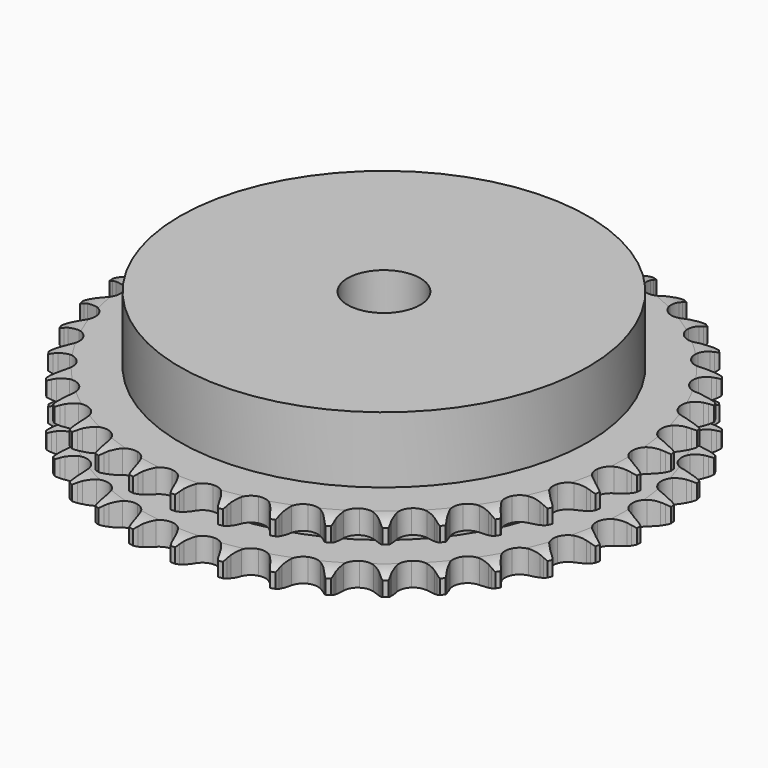
from build123d import *

# Parameters (mm, degrees)
PAD_DEPTH         = 15.4
SKETCH001_R       = 45
PAD001_DEPTH      = 30
SKETCH002_R       = 8
POCKET_DEPTH      = 0.001
POCKET_DEPTH_BACK = 30.001


with BuildPart() as part:
    # Sprocket → Pad (new body)
    with BuildSketch(Plane.XY):
        with BuildLine():
            ThreePointArc((-5.004881, 58.803092), (-4.443356, 58.033022), (-4.033709, 57.172494))
            Line((-4.033709, 57.172494), (-3.723989, 56.32775))
            ThreePointArc((-3.723989, 56.32775), (-3.233299, 55.238803), (-2.591551, 54.23146))
            ThreePointArc((-2.591551, 54.23146), (-1.450295, 53.272686), (0, 52.928658))
            ThreePointArc((0, 52.928658), (1.450295, 53.272686), (2.591551, 54.23146))
            ThreePointArc((2.591551, 54.23146), (3.233299, 55.238803), (3.723989, 56.32775))
            Line((3.723989, 56.32775), (4.033709, 57.172494))
            ThreePointArc((4.033709, 57.172494), (4.443356, 58.033022), (5.004881, 58.803092))
            ThreePointArc((5.004881, 58.803092), (5.428186, 57.9492), (5.686511, 57.03182))
            Line((5.686511, 57.03182), (5.849014, 56.146884))
            ThreePointArc((5.849014, 56.146884), (6.148612, 54.990674), (6.610887, 53.889364))
            ThreePointArc((6.610887, 53.889364), (7.573693, 52.751508), (8.944987, 52.167328))
            ThreePointArc((8.944987, 52.167328), (10.432562, 52.261305), (11.719435, 53.013415))
            Line((11.719435, 53.013415), (13.189858, 54.88817))
            ThreePointArc((13.189858, 54.88817), (13.403303, 55.284363), (13.637886, 55.66842))
            ThreePointArc((13.637886, 55.66842), (14.187071, 56.447339), (14.870661, 57.111435))
            ThreePointArc((14.870661, 57.111435), (15.143569, 56.198286), (15.24314, 55.250444))
            Line((15.24314, 55.250444), (15.25375, 54.350774))
            ThreePointArc((15.25375, 54.350774), (15.353639, 53.160562), (15.623143, 51.996969))
            ThreePointArc((15.623143, 51.996969), (16.379801, 50.712765), (17.632642, 49.905238))
            ThreePointArc((17.632642, 49.905238), (19.114702, 49.746463), (20.510172, 50.270272))
            Line((20.510172, 50.270272), (22.27628, 51.869556))
            ThreePointArc((22.27628, 51.869556), (22.553612, 52.223979), (22.849726, 52.562866))
            ThreePointArc((22.849726, 52.562866), (23.522649, 53.237769), (24.308639, 53.776785))
            ThreePointArc((24.308639, 53.776785), (24.423299, 52.830649), (24.361252, 51.879614))
            Line((24.361252, 51.879614), (24.219664, 50.991091))
            ThreePointArc((24.219664, 50.991091), (24.116969, 49.801118), (24.185948, 48.608716))
            ThreePointArc((24.185948, 48.608716), (24.714691, 47.215108), (25.813039, 46.207466))
            ThreePointArc((25.813039, 46.207466), (27.246948, 45.800505), (28.710869, 46.080944))
            Line((28.710869, 46.080944), (30.721854, 47.35875))
            ThreePointArc((30.721854, 47.35875), (31.055094, 47.661206), (31.404221, 47.945175))
            ThreePointArc((31.404221, 47.945175), (32.181524, 48.496645), (33.047302, 48.895075))
            ThreePointArc((33.047302, 48.895075), (33.000415, 47.943171), (32.778535, 47.016301))
            Line((32.778535, 47.016301), (32.488823, 46.164488))
            ThreePointArc((32.488823, 46.164488), (32.186498, 45.008987), (32.052968, 43.822079))
            ThreePointArc((32.052968, 43.822079), (32.338585, 42.359159), (33.250842, 41.180389))
            ThreePointArc((33.250842, 41.180389), (34.595348, 40.53695), (36.085607, 40.565951))
            Line((36.085607, 40.565951), (38.283615, 41.485519))
            ThreePointArc((38.283615, 41.485519), (38.663177, 41.727306), (39.055274, 41.948188))
            ThreePointArc((39.055274, 41.948188), (39.914595, 42.360361), (40.835255, 42.606742))
            ThreePointArc((40.835255, 42.606742), (40.628169, 41.676455), (40.252839, 40.800415))
            Line((40.252839, 40.800415), (39.823337, 40.009816))
            ThreePointArc((39.823337, 40.009816), (39.330081, 38.922029), (38.997883, 37.77476))
            ThreePointArc((38.997883, 37.77476), (39.032156, 36.284614), (39.732078, 34.968627))
            ThreePointArc((39.732078, 34.968627), (40.948503, 34.10722), (42.422227, 33.883949))
            Line((42.422227, 33.883949), (44.744027, 34.418826))
            ThreePointArc((44.744027, 34.418826), (45.158992, 34.592988), (45.582777, 34.744428))
            ThreePointArc((45.582777, 34.744428), (46.499395, 35.005446), (47.448451, 35.092691))
            ThreePointArc((47.448451, 35.092691), (47.087125, 34.210783), (46.569142, 33.410775))
            Line((46.569142, 33.410775), (46.012206, 32.704135))
            ThreePointArc((46.012206, 32.704135), (45.342208, 31.715355), (44.820899, 30.64073))
            ThreePointArc((44.820899, 30.64073), (44.602844, 29.166226), (45.070295, 27.750881))
            ThreePointArc((45.070295, 27.750881), (46.123645, 26.696288), (47.538437, 26.227168))
            Line((47.538437, 26.227168), (49.917235, 26.361965))
            ThreePointArc((49.917235, 26.361965), (50.355664, 26.463493), (50.798947, 26.541135))
            ThreePointArc((50.798947, 26.541135), (51.746493, 26.643489), (52.696642, 26.569088))
            ThreePointArc((52.696642, 26.569088), (52.19147, 25.760929), (51.545736, 25.059969))
            Line((51.545736, 25.059969), (50.877388, 24.457615))
            ThreePointArc((50.877388, 24.457615), (50.049923, 23.596289), (49.3545, 22.625223))
            ThreePointArc((49.3545, 22.625223), (48.890388, 21.208779), (49.111921, 19.734793))
            ThreePointArc((49.111921, 19.734793), (49.971893, 18.517353), (51.287053, 17.81588))
            Line((51.287053, 17.81588), (53.654415, 17.546718))
            ThreePointArc((53.654415, 17.546718), (54.103696, 17.572691), (54.553724, 17.574301))
            ThreePointArc((54.553724, 17.574301), (55.504938, 17.515047), (56.428847, 17.28114))
            ThreePointArc((56.428847, 17.28114), (55.794361, 16.569981), (55.039452, 15.988232))
            Line((55.039452, 15.988232), (54.27892, 15.507494))
            ThreePointArc((54.27892, 15.507494), (53.317792, 14.798399), (52.468262, 13.958829))
            ThreePointArc((52.468262, 13.958829), (51.771446, 12.641194), (51.740687, 11.150971))
            ThreePointArc((51.740687, 11.150971), (52.38254, 9.805707), (53.560234, 8.89206))
            Line((53.560234, 8.89206), (55.848054, 8.226685))
            ThreePointArc((55.848054, 8.226685), (56.295263, 8.176355), (56.73909, 8.101886))
            ThreePointArc((56.73909, 8.101886), (57.666607, 7.882729), (58.537696, 7.496045))
            ThreePointArc((58.537696, 7.496045), (57.792151, 6.902344), (56.949784, 6.456544))
            Line((56.949784, 6.456544), (56.118946, 6.111251))
            ThreePointArc((56.118946, 6.111251), (55.051806, 5.574787), (54.072607, 4.890864))
            ThreePointArc((54.072607, 4.890864), (53.163133, 3.709946), (52.880968, 2.246356))
            ThreePointArc((52.880968, 2.246356), (53.286237, 0.811968), (54.292584, -0.287567))
            Line((54.292584, -0.287567), (56.435048, -1.330016))
            ThreePointArc((56.435048, -1.330016), (56.867317, -1.4552), (57.292175, -1.603605))
            ThreePointArc((57.292175, -1.603605), (58.169313, -1.976361), (58.962522, -2.504697))
            ThreePointArc((58.962522, -2.504697), (58.127365, -2.963861), (57.221775, -3.260888))
            Line((57.221775, -3.260888), (56.344533, -3.460802))
            ThreePointArc((56.344533, -3.460802), (55.20208, -3.809201), (54.121382, -4.317801))
            ThreePointArc((54.121382, -4.317801), (53.025413, -5.328032), (52.499959, -6.722883))
            ThreePointArc((52.499959, -6.722883), (52.656987, -8.205129), (53.463036, -9.458922))
            Line((53.463036, -9.458922), (55.398507, -10.848454))
            ThreePointArc((55.398507, -10.848454), (55.803403, -11.044892), (56.197069, -11.262963))
            ThreePointArc((56.197069, -11.262963), (56.998594, -11.778595), (57.691104, -12.433384))
            ThreePointArc((57.691104, -12.433384), (56.790361, -12.744801), (55.847599, -12.88451))
            Line((55.847599, -12.88451), (54.94919, -12.933294))
            ThreePointArc((54.94919, -12.933294), (53.76429, -13.083606), (52.613183, -13.402252))
            ThreePointArc((52.613183, -13.402252), (51.362249, -14.212731), (50.608622, -15.498716))
            ThreePointArc((50.608622, -15.498716), (50.51289, -16.98618), (51.095453, -18.358161))
            Line((51.095453, -18.358161), (52.768252, -20.054802))
            ThreePointArc((52.768252, -20.054802), (53.134126, -20.316842), (53.485275, -20.598306))
            ThreePointArc((53.485275, -20.598306), (54.188129, -21.24198), (54.760018, -22.004385))
            ThreePointArc((54.760018, -22.004385), (53.819601, -22.159096), (52.866789, -22.137468))
            Line((52.866789, -22.137468), (51.973058, -22.033718))
            ThreePointArc((51.973058, -22.033718), (50.779799, -21.981619), (49.591399, -22.101144))
            ThreePointArc((49.591399, -22.101144), (48.221487, -22.688556), (47.261368, -23.82868))
            ThreePointArc((47.261368, -23.82868), (46.91563, -25.278569), (47.257947, -26.729269))
            Line((47.257947, -26.729269), (48.619951, -28.68421))
            ThreePointArc((48.619951, -28.68421), (48.936277, -29.004313), (49.234808, -29.341074))
            ThreePointArc((49.234808, -29.341074), (49.81877, -30.094271), (50.253586, -30.94236))
            ThreePointArc((50.253586, -30.94236), (49.30055, -30.935914), (48.365098, -30.753572))
            Line((48.365098, -30.753572), (47.501757, -30.500273))
            ThreePointArc((47.501757, -30.500273), (46.334466, -30.247262), (45.14296, -30.164226))
            ThreePointArc((45.14296, -30.164226), (43.69348, -30.511673), (42.554489, -31.473136))
            ThreePointArc((42.554489, -31.473136), (41.968693, -32.84374), (42.060916, -34.331425))
            Line((42.060916, -34.331425), (43.072942, -36.488425))
            ThreePointArc((43.072942, -36.488425), (43.33062, -36.857384), (43.567944, -37.239752))
            ThreePointArc((43.567944, -37.239752), (44.016216, -38.080806), (44.301449, -38.990179))
            ThreePointArc((44.301449, -38.990179), (43.363211, -38.822763), (42.472031, -38.484951))
            Line((42.472031, -38.484951), (41.663916, -38.08939))
            ThreePointArc((41.663916, -38.08939), (40.556175, -37.642745), (39.395841, -37.359538))
            ThreePointArc((39.395841, -37.359538), (37.908492, -37.457024), (36.623396, -38.212167))
            ThreePointArc((36.623396, -38.212167), (35.814392, -39.464056), (35.653869, -40.945928))
            Line((35.653869, -40.945928), (36.286803, -43.242935))
            ThreePointArc((36.286803, -43.242935), (36.478421, -43.650134), (36.64771, -44.06711))
            ThreePointArc((36.64771, -44.06711), (36.947395, -44.971825), (37.074841, -45.916322))
            ThreePointArc((37.074841, -45.916322), (36.178392, -45.592751), (35.357122, -45.109188))
            Line((35.357122, -45.109188), (34.62748, -44.582745))
            ThreePointArc((34.62748, -44.582745), (33.611157, -43.955315), (32.515375, -43.480085))
            ThreePointArc((32.515375, -43.480085), (31.032945, -43.324805), (29.638714, -43.851904))
            ThreePointArc((29.638714, -43.851904), (28.629777, -44.949063), (28.221125, -46.382491))
            Line((28.221125, -46.382491), (28.456759, -48.753424))
            ThreePointArc((28.456759, -48.753424), (28.576803, -49.18715), (28.673189, -49.626738))
            ThreePointArc((28.673189, -49.626738), (28.815666, -50.569086), (28.781657, -51.521537))
            ThreePointArc((28.781657, -51.521537), (27.952787, -51.051119), (27.225052, -50.435716))
            Line((27.225052, -50.435716), (26.594875, -49.793535))
            ThreePointArc((26.594875, -49.793535), (25.699206, -49.003371), (24.699501, -48.349788))
            ThreePointArc((24.699501, -48.349788), (23.264636, -47.94621), (21.80138, -48.230101))
            ThreePointArc((21.80138, -48.230101), (20.621535, -49.140967), (19.976511, -50.484714))
            Line((19.976511, -50.484714), (19.808066, -52.861366))
            ThreePointArc((19.808066, -52.861366), (19.853084, -53.30914), (19.873792, -53.758695))
            ThreePointArc((19.873792, -53.758695), (19.854961, -54.711567), (19.660477, -55.64457))
            ThreePointArc((19.660477, -55.64457), (18.92303, -55.040839), (18.309767, -54.3113))
            Line((18.309767, -54.3113), (17.797184, -53.571856))
            ThreePointArc((17.797184, -53.571856), (17.047937, -52.641689), (16.173067, -51.828557))
            ThreePointArc((16.173067, -51.828557), (14.827047, -51.18829), (13.336861, -51.220806))
            ThreePointArc((13.336861, -51.220806), (12.020049, -51.919176), (11.157209, -53.134584))
            Line((11.157209, -53.134584), (10.589531, -55.448583))
            ThreePointArc((10.589531, -55.448583), (10.558227, -55.897524), (10.502662, -56.344112))
            ThreePointArc((10.502662, -56.344112), (10.323066, -57.280095), (9.973701, -58.16681))
            ThreePointArc((9.973701, -58.16681), (9.348893, -57.447134), (8.867743, -56.624447))
            Line((8.867743, -56.624447), (8.4875, -55.809013))
            ThreePointArc((8.4875, -55.809013), (7.906229, -54.765602), (7.181364, -53.816312))
            ThreePointArc((7.181364, -53.816312), (5.96291, -52.957777), (4.488664, -52.737982))
            ThreePointArc((4.488664, -52.737982), (3.072769, -53.203764), (2.016934, -54.255869))
            Line((2.016934, -54.255869), (1.066354, -56.440645))
            ThreePointArc((1.066354, -56.440645), (0.959629, -56.877838), (0.829389, -57.308612))
            ThreePointArc((0.829389, -57.308612), (0.494195, -58.20078), (0, -59.015697))
            ThreePointArc((0, -59.015697), (-0.494195, -58.20078), (-0.829389, -57.308612))
            Line((-0.829389, -57.308612), (-1.066354, -56.440645))
            ThreePointArc((-1.066354, -56.440645), (-1.462926, -55.314008), (-2.016934, -54.255869))
            ThreePointArc((-2.016934, -54.255869), (-3.072769, -53.203764), (-4.488664, -52.737982))
            ThreePointArc((-4.488664, -52.737982), (-5.96291, -52.957777), (-7.181364, -53.816312))
            Line((-7.181364, -53.816312), (-8.4875, -55.809013))
            ThreePointArc((-8.4875, -55.809013), (-8.666576, -56.22188), (-8.867743, -56.624447))
            ThreePointArc((-8.867743, -56.624447), (-9.348893, -57.447134), (-9.973701, -58.16681))
            ThreePointArc((-9.973701, -58.16681), (-10.323066, -57.280095), (-10.502662, -56.344112))
            Line((-10.502662, -56.344112), (-10.589531, -55.448583))
            ThreePointArc((-10.589531, -55.448583), (-10.789996, -54.27113), (-11.157209, -53.134584))
            ThreePointArc((-11.157209, -53.134584), (-12.020049, -51.919176), (-13.336861, -51.220806))
            ThreePointArc((-13.336861, -51.220806), (-14.827047, -51.18829), (-16.173067, -51.828557))
            Line((-16.173067, -51.828557), (-17.797184, -53.571856))
            ThreePointArc((-17.797184, -53.571856), (-18.043459, -53.948521), (-18.309767, -54.3113))
            ThreePointArc((-18.309767, -54.3113), (-18.92303, -55.040839), (-19.660477, -55.64457))
            ThreePointArc((-19.660477, -55.64457), (-19.854961, -54.711567), (-19.873792, -53.758695))
            Line((-19.873792, -53.758695), (-19.808066, -52.861366))
            ThreePointArc((-19.808066, -52.861366), (-19.806658, -51.666971), (-19.976511, -50.484714))
            ThreePointArc((-19.976511, -50.484714), (-20.621535, -49.140967), (-21.80138, -48.230101))
            ThreePointArc((-21.80138, -48.230101), (-23.264636, -47.94621), (-24.699501, -48.349788))
            Line((-24.699501, -48.349788), (-26.594875, -49.793535))
            ThreePointArc((-26.594875, -49.793535), (-26.901265, -50.123162), (-27.225052, -50.435716))
            ThreePointArc((-27.225052, -50.435716), (-27.952787, -51.051119), (-28.781657, -51.521537))
            ThreePointArc((-28.781657, -51.521537), (-28.815666, -50.569086), (-28.673189, -49.626738))
            Line((-28.673189, -49.626738), (-28.456759, -48.753424))
            ThreePointArc((-28.456759, -48.753424), (-28.253517, -47.576448), (-28.221125, -46.382491))
            ThreePointArc((-28.221125, -46.382491), (-28.629777, -44.949063), (-29.638714, -43.851904))
            ThreePointArc((-29.638714, -43.851904), (-31.032945, -43.324805), (-32.515375, -43.480085))
            Line((-32.515375, -43.480085), (-34.62748, -44.582745))
            ThreePointArc((-34.62748, -44.582745), (-34.98517, -44.85585), (-35.357122, -45.109188))
            ThreePointArc((-35.357122, -45.109188), (-36.178392, -45.592751), (-37.074841, -45.916322))
            ThreePointArc((-37.074841, -45.916322), (-36.947395, -44.971825), (-36.64771, -44.06711))
            Line((-36.64771, -44.06711), (-36.286803, -43.242935))
            ThreePointArc((-36.286803, -43.242935), (-35.887575, -42.117236), (-35.653869, -40.945928))
            ThreePointArc((-35.653869, -40.945928), (-35.814392, -39.464056), (-36.623396, -38.212167))
            ThreePointArc((-36.623396, -38.212167), (-37.908492, -37.457024), (-39.395841, -37.359538))
            Line((-39.395841, -37.359538), (-41.663916, -38.08939))
            ThreePointArc((-41.663916, -38.08939), (-42.062616, -38.298117), (-42.472031, -38.484951))
            ThreePointArc((-42.472031, -38.484951), (-43.363211, -38.822763), (-44.301449, -38.990179))
            ThreePointArc((-44.301449, -38.990179), (-44.016216, -38.080806), (-43.567944, -37.239752))
            Line((-43.567944, -37.239752), (-43.072942, -36.488425))
            ThreePointArc((-43.072942, -36.488425), (-42.489212, -35.446388), (-42.060916, -34.331425))
            ThreePointArc((-42.060916, -34.331425), (-41.968693, -32.84374), (-42.554489, -31.473136))
            ThreePointArc((-42.554489, -31.473136), (-43.69348, -30.511673), (-45.14296, -30.164226))
            Line((-45.14296, -30.164226), (-47.501757, -30.500273))
            ThreePointArc((-47.501757, -30.500273), (-47.929996, -30.638617), (-48.365098, -30.753572))
            ThreePointArc((-48.365098, -30.753572), (-49.30055, -30.935914), (-50.253586, -30.94236))
            ThreePointArc((-50.253586, -30.94236), (-49.81877, -30.094271), (-49.234808, -29.341074))
            Line((-49.234808, -29.341074), (-48.619951, -28.68421))
            ThreePointArc((-48.619951, -28.68421), (-47.868512, -27.755813), (-47.257947, -26.729269))
            ThreePointArc((-47.257947, -26.729269), (-46.91563, -25.278569), (-47.261368, -23.82868))
            ThreePointArc((-47.261368, -23.82868), (-48.221487, -22.688556), (-49.591399, -22.101144))
            Line((-49.591399, -22.101144), (-51.973058, -22.033718))
            ThreePointArc((-51.973058, -22.033718), (-52.418518, -22.097699), (-52.866789, -22.137468))
            ThreePointArc((-52.866789, -22.137468), (-53.819601, -22.159096), (-54.760018, -22.004385))
            ThreePointArc((-54.760018, -22.004385), (-54.188129, -21.24198), (-53.485275, -20.598306))
            Line((-53.485275, -20.598306), (-52.768252, -20.054802))
            ThreePointArc((-52.768252, -20.054802), (-51.870722, -19.266753), (-51.095453, -18.358161))
            ThreePointArc((-51.095453, -18.358161), (-50.51289, -16.98618), (-50.608622, -15.498716))
            ThreePointArc((-50.608622, -15.498716), (-51.362249, -14.212731), (-52.613183, -13.402252))
            Line((-52.613183, -13.402252), (-54.94919, -12.933294))
            ThreePointArc((-54.94919, -12.933294), (-55.399055, -12.921071), (-55.847599, -12.88451))
            ThreePointArc((-55.847599, -12.88451), (-56.790361, -12.744801), (-57.691104, -12.433384))
            ThreePointArc((-57.691104, -12.433384), (-56.998594, -11.778595), (-56.197069, -11.262963))
            Line((-56.197069, -11.262963), (-55.398507, -10.848454))
            ThreePointArc((-55.398507, -10.848454), (-54.380706, -10.223423), (-53.463036, -9.458922))
            ThreePointArc((-53.463036, -9.458922), (-52.656987, -8.205129), (-52.499959, -6.722883))
            ThreePointArc((-52.499959, -6.722883), (-53.025413, -5.328032), (-54.121382, -4.317801))
            Line((-54.121382, -4.317801), (-56.344533, -3.460802))
            ThreePointArc((-56.344533, -3.460802), (-56.785862, -3.372728), (-57.221775, -3.260888))
            ThreePointArc((-57.221775, -3.260888), (-58.127365, -2.963861), (-58.962522, -2.504697))
            ThreePointArc((-58.962522, -2.504697), (-58.169313, -1.976361), (-57.292175, -1.603605))
            Line((-57.292175, -1.603605), (-56.435048, -1.330016))
            ThreePointArc((-56.435048, -1.330016), (-55.326256, -0.885985), (-54.292584, -0.287567))
            ThreePointArc((-54.292584, -0.287567), (-53.286237, 0.811968), (-52.880968, 2.246356))
            ThreePointArc((-52.880968, 2.246356), (-53.163133, 3.709946), (-54.072607, 4.890864))
            Line((-54.072607, 4.890864), (-56.118946, 6.111251))
            ThreePointArc((-56.118946, 6.111251), (-56.539043, 6.272643), (-56.949784, 6.456544))
            ThreePointArc((-56.949784, 6.456544), (-57.792151, 6.902344), (-58.537696, 7.496045))
            ThreePointArc((-58.537696, 7.496045), (-57.666607, 7.882729), (-56.73909, 8.101886))
            Line((-56.73909, 8.101886), (-55.848054, 8.226685))
            ThreePointArc((-55.848054, 8.226685), (-54.680171, 8.476942), (-53.560234, 8.89206))
            ThreePointArc((-53.560234, 8.89206), (-52.38254, 9.805707), (-51.740687, 11.150971))
            ThreePointArc((-51.740687, 11.150971), (-51.771446, 12.641194), (-52.468262, 13.958829))
            Line((-52.468262, 13.958829), (-54.27892, 15.507494))
            ThreePointArc((-54.27892, 15.507494), (-54.665698, 15.737561), (-55.039452, 15.988232))
            ThreePointArc((-55.039452, 15.988232), (-55.794361, 16.569981), (-56.428847, 17.28114))
            ThreePointArc((-56.428847, 17.28114), (-55.504938, 17.515047), (-54.553724, 17.574301))
            Line((-54.553724, 17.574301), (-53.654415, 17.546718))
            ThreePointArc((-53.654415, 17.546718), (-52.461036, 17.596003), (-51.287053, 17.81588))
            ThreePointArc((-51.287053, 17.81588), (-49.971893, 18.517353), (-49.111921, 19.734793))
            ThreePointArc((-49.111921, 19.734793), (-48.890388, 21.208779), (-49.3545, 22.625223))
            Line((-49.3545, 22.625223), (-50.877388, 24.457615))
            ThreePointArc((-50.877388, 24.457615), (-51.219721, 24.749739), (-51.545736, 25.059969))
            ThreePointArc((-51.545736, 25.059969), (-52.19147, 25.760929), (-52.696642, 26.569088))
            ThreePointArc((-52.696642, 26.569088), (-51.746493, 26.643489), (-50.798947, 26.541135))
            Line((-50.798947, 26.541135), (-49.917235, 26.361965))
            ThreePointArc((-49.917235, 26.361965), (-48.732693, 26.208858), (-47.538437, 26.227168))
            ThreePointArc((-47.538437, 26.227168), (-46.123645, 26.696288), (-45.070295, 27.750881))
            ThreePointArc((-45.070295, 27.750881), (-44.602844, 29.166226), (-44.820899, 30.64073))
            Line((-44.820899, 30.64073), (-46.012206, 32.704135))
            ThreePointArc((-46.012206, 32.704135), (-46.300246, 33.049911), (-46.569142, 33.410775))
            ThreePointArc((-46.569142, 33.410775), (-47.087125, 34.210783), (-47.448451, 35.092691))
            ThreePointArc((-47.448451, 35.092691), (-46.499395, 35.005446), (-45.582777, 34.744428))
            Line((-45.582777, 34.744428), (-44.744027, 34.418826))
            ThreePointArc((-44.744027, 34.418826), (-43.602399, 34.067733), (-42.422227, 33.883949))
            ThreePointArc((-42.422227, 33.883949), (-40.948503, 34.10722), (-39.732078, 34.968627))
            ThreePointArc((-39.732078, 34.968627), (-39.032156, 36.284614), (-38.997883, 37.77476))
            Line((-38.997883, 37.77476), (-39.823337, 40.009816))
            ThreePointArc((-39.823337, 40.009816), (-40.048797, 40.399298), (-40.252839, 40.800415))
            ThreePointArc((-40.252839, 40.800415), (-40.628169, 41.676455), (-40.835255, 42.606742))
            ThreePointArc((-40.835255, 42.606742), (-39.914595, 42.360361), (-39.055274, 41.948188))
            Line((-39.055274, 41.948188), (-38.283615, 41.485519))
            ThreePointArc((-38.283615, 41.485519), (-37.217743, 40.946541), (-36.085607, 40.565951))
            ThreePointArc((-36.085607, 40.565951), (-34.595348, 40.53695), (-33.250842, 41.180389))
            ThreePointArc((-33.250842, 41.180389), (-32.338585, 42.359159), (-32.052968, 43.822079))
            Line((-32.052968, 43.822079), (-32.488823, 46.164488))
            ThreePointArc((-32.488823, 46.164488), (-32.645217, 46.58647), (-32.778535, 47.016301))
            ThreePointArc((-32.778535, 47.016301), (-33.000415, 47.943171), (-33.047302, 48.895075))
            ThreePointArc((-33.047302, 48.895075), (-32.181524, 48.496645), (-31.404221, 47.945175))
            Line((-31.404221, 47.945175), (-30.721854, 47.35875))
            ThreePointArc((-30.721854, 47.35875), (-29.762401, 46.647391), (-28.710869, 46.080944))
            ThreePointArc((-28.710869, 46.080944), (-27.246948, 45.800505), (-25.813039, 46.207466))
            ThreePointArc((-25.813039, 46.207466), (-24.714691, 47.215108), (-24.185948, 48.608716))
            Line((-24.185948, 48.608716), (-24.219664, 50.991091))
            ThreePointArc((-24.219664, 50.991091), (-24.302494, 51.433435), (-24.361252, 51.879614))
            ThreePointArc((-24.361252, 51.879614), (-24.423299, 52.830649), (-24.308639, 53.776785))
            ThreePointArc((-24.308639, 53.776785), (-23.522649, 53.237769), (-22.849726, 52.562866))
            Line((-22.849726, 52.562866), (-22.27628, 51.869556))
            ThreePointArc((-22.27628, 51.869556), (-21.450849, 51.006281), (-20.510172, 50.270272))
            ThreePointArc((-20.510172, 50.270272), (-19.114702, 49.746463), (-17.632642, 49.905238))
            ThreePointArc((-17.632642, 49.905238), (-16.379801, 50.712765), (-15.623143, 51.996969))
            Line((-15.623143, 51.996969), (-15.25375, 54.350774))
            ThreePointArc((-15.25375, 54.350774), (-15.260632, 54.800753), (-15.24314, 55.250444))
            ThreePointArc((-15.24314, 55.250444), (-15.143569, 56.198286), (-14.870661, 57.111435))
            ThreePointArc((-14.870661, 57.111435), (-14.187071, 56.447339), (-13.637886, 55.66842))
            Line((-13.637886, 55.66842), (-13.189858, 54.88817))
            ThreePointArc((-13.189858, 54.88817), (-12.522194, 53.897813), (-11.719435, 53.013415))
            ThreePointArc((-11.719435, 53.013415), (-10.432562, 52.261305), (-8.944987, 52.167328))
            ThreePointArc((-8.944987, 52.167328), (-7.573693, 52.751508), (-6.610887, 53.889364))
            Line((-6.610887, 53.889364), (-5.849014, 56.146884))
            ThreePointArc((-5.849014, 56.146884), (-5.779749, 56.591553), (-5.686511, 57.03182))
            ThreePointArc((-5.686511, 57.03182), (-5.428186, 57.9492), (-5.004881, 58.803092))
        make_face()
    extrude(amount=PAD_DEPTH)

    # Sketch → Groove (revolve, cut)
    with BuildSketch(Plane.XZ):
        with BuildLine():
            ThreePointArc((53.841101, 0), (56.077169, 0.253206), (58.2, 1))
            Line((58.2, 1), (58.2, 4.2))
            ThreePointArc((58.2, 4.2), (56.077169, 4.946794), (53.841101, 5.2))
            Line((45, 5.2), (53.841101, 5.2))
            Line((45, 10.2), (45, 5.2))
            Line((53.841101, 10.2), (45, 10.2))
            ThreePointArc((53.841101, 10.2), (56.077169, 10.453206), (58.2, 11.2))
            Line((58.2, 11.2), (58.2, 14.4))
            ThreePointArc((58.2, 14.4), (56.077169, 15.146794), (53.841101, 15.4))
            Line((53.841101, 15.4), (63.841101, 15.4))
            Line((63.841101, 15.4), (63.841101, 0))
            Line((53.841101, 0), (63.841101, 0))
        make_face()
    revolve(axis=Axis((0, 0, 0), (0, 0, 1)), mode=Mode.SUBTRACT)

    # Sketch001 → Pad001 (join)
    with BuildSketch(Plane.XY):
        Circle(SKETCH001_R)
    extrude(amount=PAD001_DEPTH)

    # Sketch002 → Pocket (cut, two sides)
    with BuildSketch(Plane.XY) as pocket_sk:
        Circle(SKETCH002_R)
    extrude(amount=-POCKET_DEPTH, mode=Mode.SUBTRACT)
    extrude(pocket_sk.sketch, amount=POCKET_DEPTH_BACK, mode=Mode.SUBTRACT)


solid = part.part
